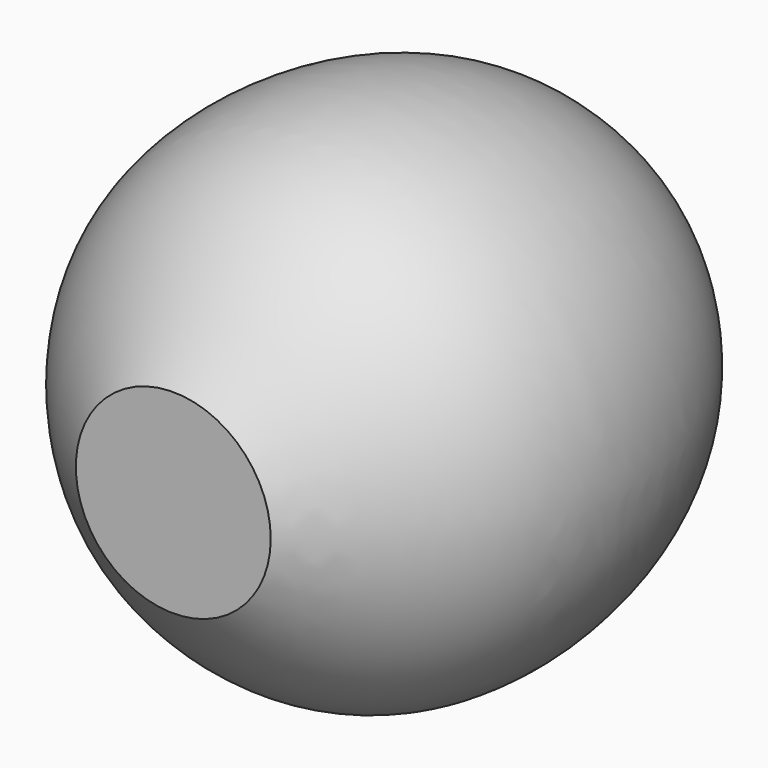
from build123d import *


with BuildPart() as f1:
    # F0 (on Top) → F1 (revolve)
    with BuildSketch(Plane.XY):
        with BuildLine():
            add(Edge.make_bspline(
                [(11.8776224554, 43.8670478761), (22.1172002991, 36.8606026243), (43.5815924967, 22.1735626807), (49.0186234184, -29.6762334179), (27.5461765845, -46.0748979767), (17.2699186951, -53.9229512215)],
                knots=[0, 0, 0, 0, 0.3223345768, 0.6756836934, 1, 1, 1, 1], degree=3))
            Line((11.8776224554, 43.8670478761), (0, 43.8670478761))
            Line((0, 43.8670478761), (0, -53.9229512215))
            Line((0, -53.9229512215), (17.2699186951, -53.9229512215))
        make_face()
    revolve(axis=Axis((0, -5.0279516727, 0), (0, -1, 0)))


solid = f1.part
